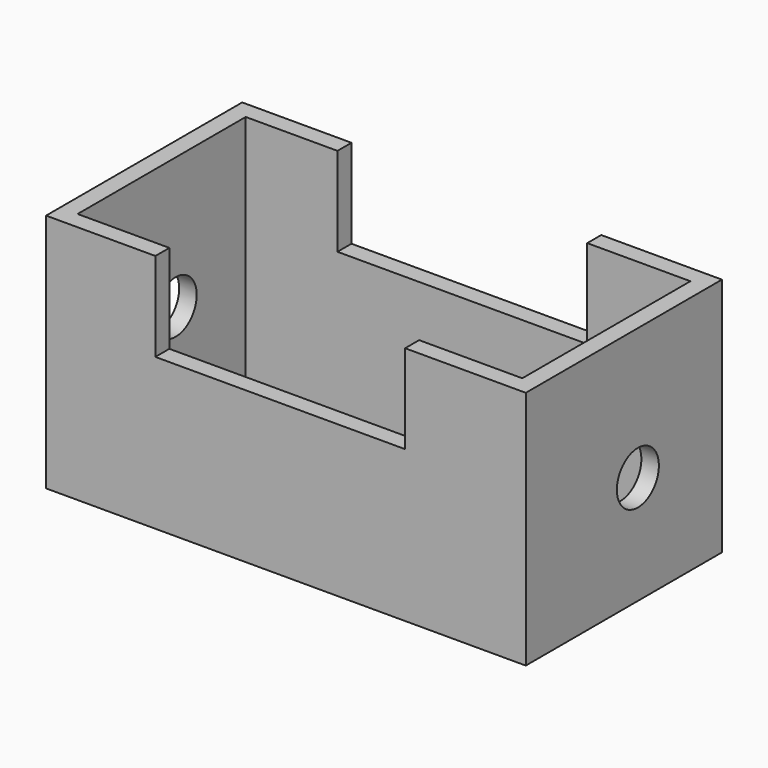
from build123d import *

# Parameters (mm, degrees)
F1_DEPTH      = 50.8
F1_DEPTH_BACK = 38.1
F2_T          = -6.35
F4_D          = 19.05


with BuildPart() as f1:
    # F0 (on Front) → F1 (new body, two sides)
    with BuildSketch(Plane.XZ) as f1_sk:
        Polygon((-110.054575, 28.956002), (-110.054575, -58.129717), (63.899137, -58.129717), (63.899137, 28.956002), (20.138571, 28.956002), (20.138571, -3.265714), (-70.430569, -3.265714), (-70.430569, 28.956002), align=None)
    extrude(amount=F1_DEPTH)
    extrude(f1_sk.sketch, amount=-F1_DEPTH_BACK)

    # F2
    f2_openings = [f1.faces().sort_by_distance(p)[0] for p in [
        (-90.242572, -6.35, 28.956002),
        (-70.430569, -6.35, 12.845144),
        (20.138571, -6.35, 12.845144),
        (42.018854, -6.35, 28.956002),
        (-25.145999, -6.35, -3.265714),
        (-23.077719, -6.35, -58.129717),
    ]]
    offset(amount=F2_T, openings=f2_openings)

    # F4 (through all)
    with Locations(Plane.YZ.offset(63.899137)):
        with Locations((0, -18.793555)):
            Hole(F4_D / 2)


solid = f1.part
